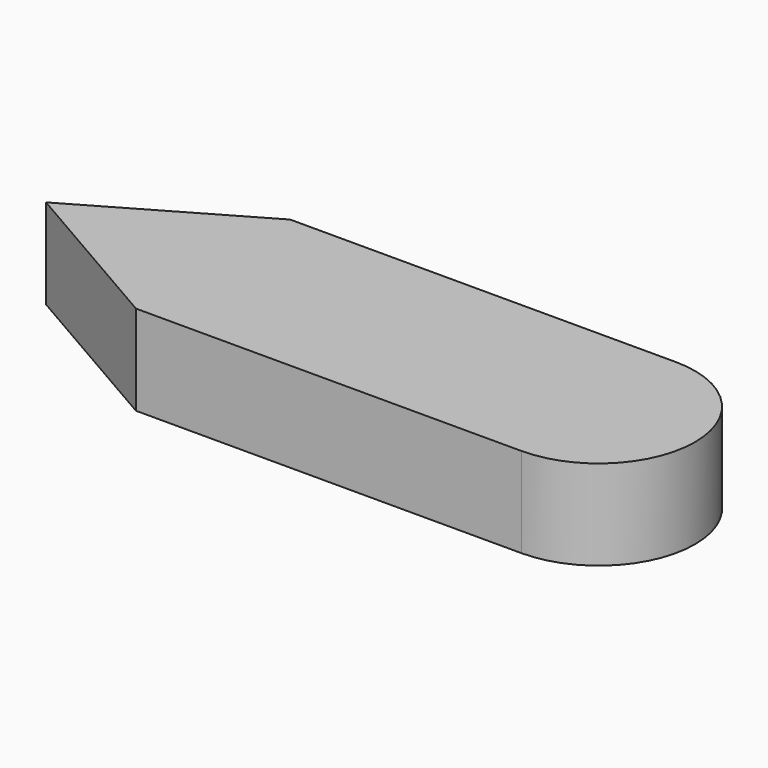
from build123d import *

# Parameters (mm, degrees)
F1_DEPTH = 1200
F2_DEPTH = 500


with BuildPart() as f1:
    # F0 (on Top) → F1 (new body)
    with BuildSketch(Plane.XY):
        with BuildLine():
            ThreePointArc((0, -1500), (750, -750), (0, 0))
            Line((0, 0), (-3000, 0))
            Line((-3000, 0), (-4299.0381056767, -750))
            Line((-4299.0381056767, -750), (-3000, -1500))
            Line((-3000, -1500), (0, -1500))
        make_face()
    extrude(amount=-F1_DEPTH)

    # F2 (cut): a face of the model
    f2_faces = [f1.faces().sort_by_distance(p)[0] for p in [
        (-1543.5183910137, -750, -1200),
    ]]
    extrude(f2_faces, amount=-F2_DEPTH, mode=Mode.SUBTRACT)


solid = f1.part
